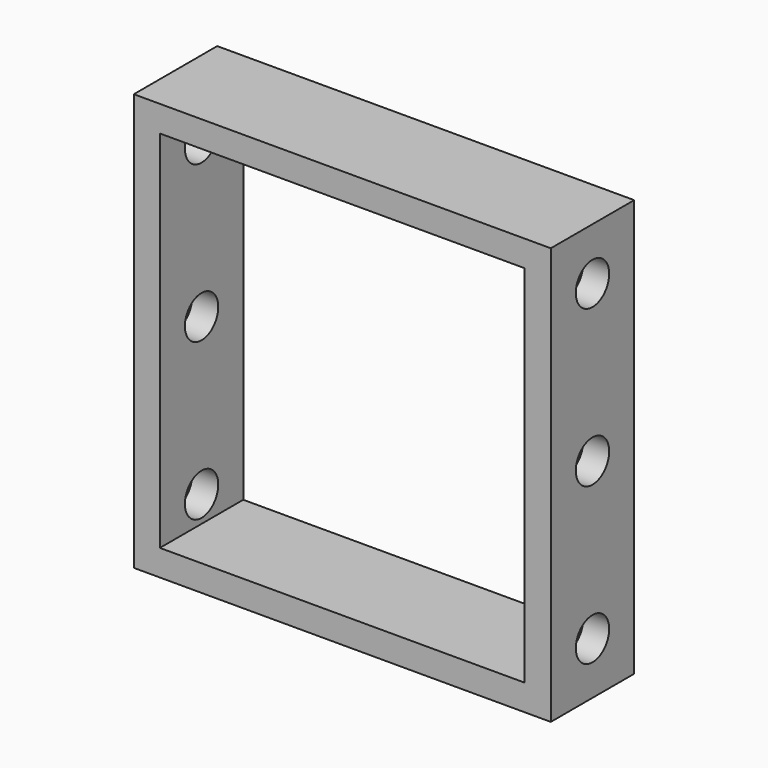
from build123d import *

# Parameters (mm, degrees)
F0_W     = 80
F0_H     = 80
F0_W_2   = 70
F0_H_2   = 70
F1_DEPTH = 20
F2_R     = 4
F3_DEPTH = 80.001


with BuildPart() as f1:
    # F0 (on Front) → F1 (new body)
    with BuildSketch(Plane.XZ):
        Rectangle(F0_W, F0_H)
        Rectangle(F0_W_2, F0_H_2, mode=Mode.SUBTRACT)
    extrude(amount=F1_DEPTH)

    # F2 (on face) → F3 (cut, through all)
    with BuildSketch(Plane.YZ.offset(40)):
        with Locations((-10, 30)):
            Circle(F2_R)
        with Locations((-10, 0)):
            Circle(F2_R)
        with Locations((-10, -30)):
            Circle(F2_R)
    extrude(amount=-F3_DEPTH, mode=Mode.SUBTRACT)


solid = f1.part
